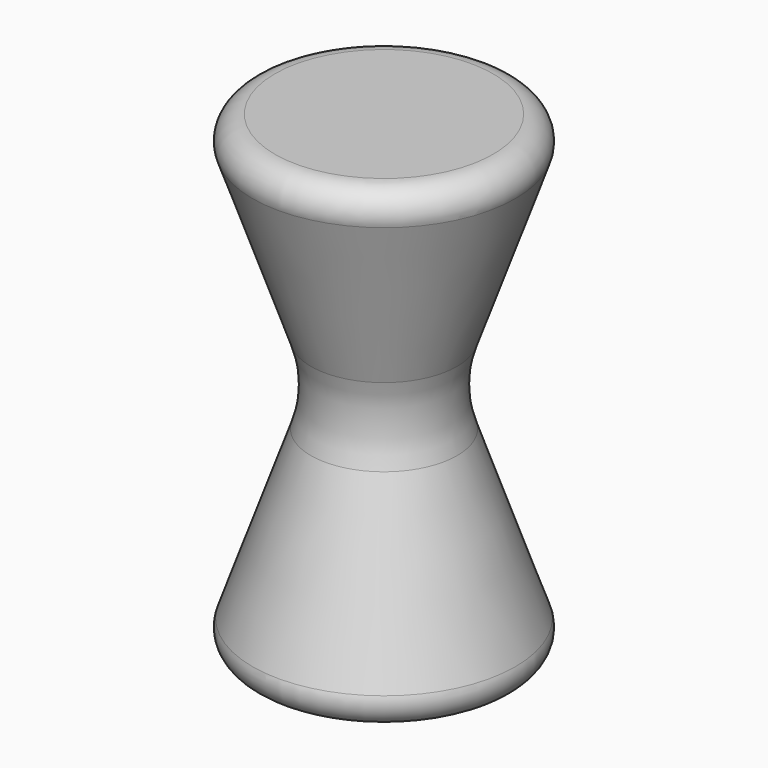
from build123d import *

# Parameters (mm, degrees)
F2_R = 1
F3_R = 5


with BuildPart() as f1:
    # F0 (on Front) → F1 (revolve)
    with BuildSketch(Plane.XZ):
        Polygon((0, -10), (0, 10), (-6, 10), (-2.5, 0), (-6, -10), align=None)
    revolve(axis=Axis((0, 0, 0), (0, 0, -1)))

    # F2
    f2_edges = [f1.edges().sort_by_distance(p)[0] for p in [
        (6, 0, 10),
        (6, 0, -10),
    ]]
    fillet(f2_edges, radius=F2_R)

    # F3
    f3_edges = [f1.edges().sort_by_distance(p)[0] for p in [
        (2.5, 0, 0),
    ]]
    fillet(f3_edges, radius=F3_R)


solid = f1.part
